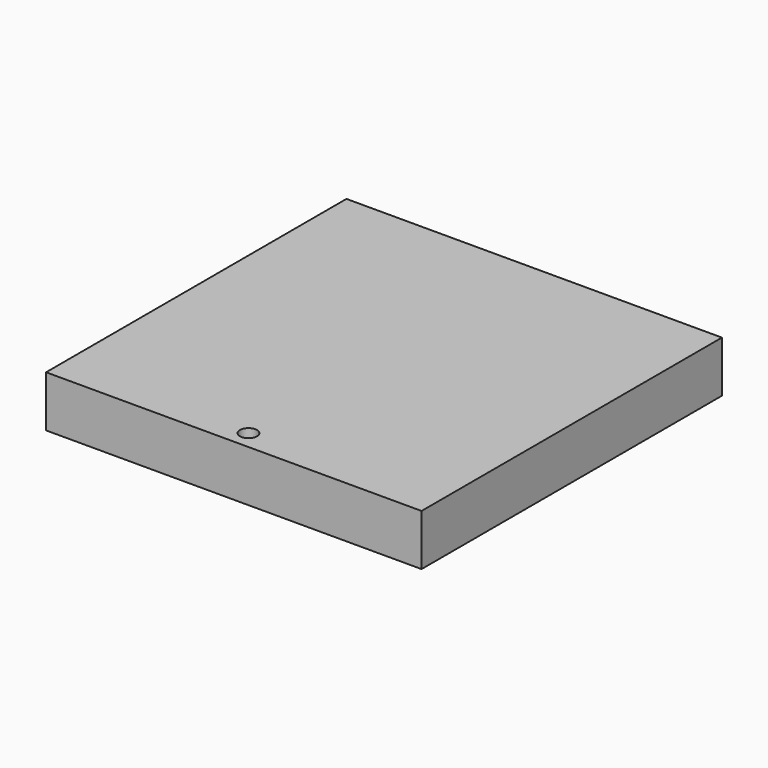
from build123d import *

# Parameters (mm, degrees)
F1_DEPTH = 19.05


with BuildPart() as f1:
    # F0 (on Top) → F1 (new body)
    with BuildSketch(Plane.XY):
        with BuildLine():
            ThreePointArc((3.175, -63.042804), (-2.245064, -60.797739), (0, -66.217804))
            ThreePointArc((0, -66.217804), (2.245064, -65.287868), (3.175, -63.042804))
        make_face()
        Polygon((-69.85, -69.85), (0, -69.85), (69.85, -69.85), (69.85, 69.85), (-69.85, 69.85), align=None)
        with BuildLine():
            ThreePointArc((3.175, -63.042804), (2.245064, -65.287868), (0, -66.217804))
            ThreePointArc((0, -66.217804), (-2.245064, -60.797739), (3.175, -63.042804))
        make_face(mode=Mode.SUBTRACT)
    extrude(amount=F1_DEPTH)


solid = f1.part
